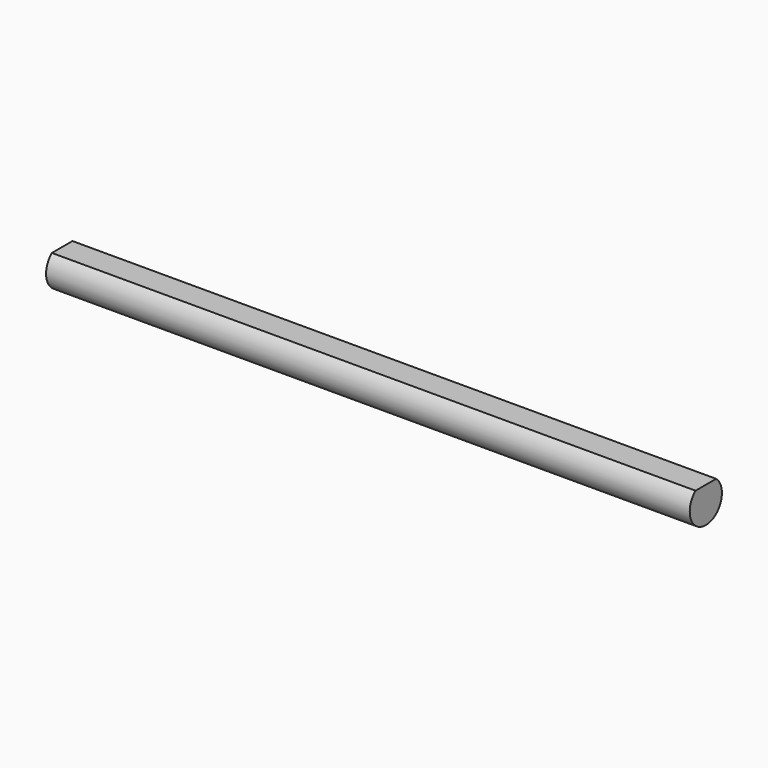
from build123d import *

# Parameters (mm, degrees)
F1_DEPTH = 50.8


with BuildPart() as f1:
    # F0 (on Right) → F1 (new body)
    with BuildSketch(Plane.YZ):
        with BuildLine():
            Line((1.016, 1.219795), (-1.016, 1.219795))
            ThreePointArc((-1.016, 1.219795), (0, -1.5875), (1.016, 1.219795))
        make_face()
    extrude(amount=F1_DEPTH)


solid = f1.part
